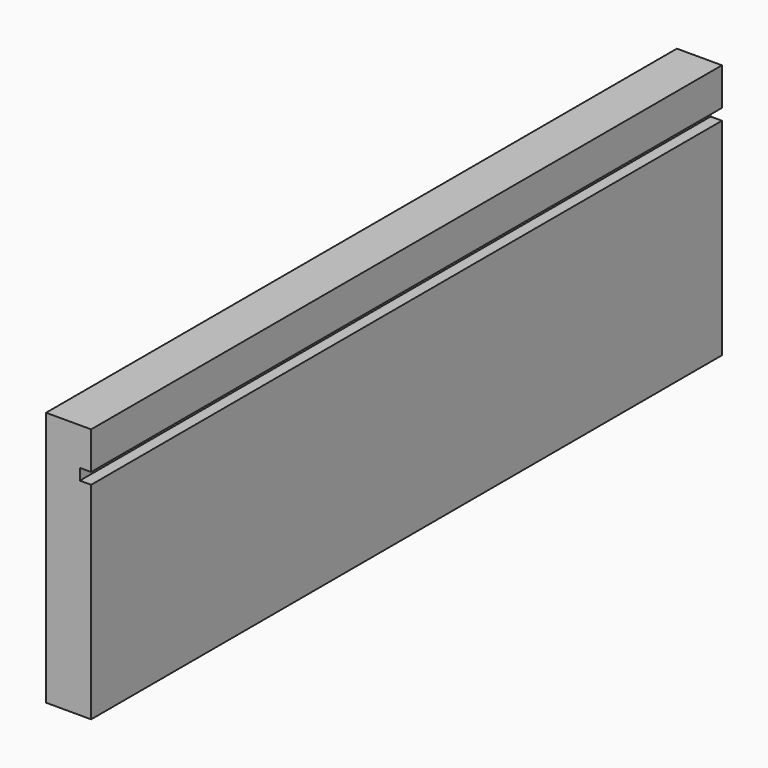
from build123d import *

# Parameters (mm, degrees)
F0_W     = 210
F0_H     = 68
F1_DEPTH = 12
F2_W     = 3
F2_H     = 3
F3_DEPTH = 222000
F4_W     = 3
F4_H     = 3
F5_DEPTH = 210
F6_W     = 3
F6_H     = 3
F7_DEPTH = 300


with BuildPart() as f1:
    # F0 (on Right) → F1 (new body)
    with BuildSketch(Plane.YZ):
        Rectangle(F0_W, F0_H)
    extrude(amount=F1_DEPTH)

    # F2 (on face) → F3 (cut)
    with BuildSketch(Plane.XZ.offset(105)):
        with Locations((1.5, 22.5)):
            Rectangle(F2_W, F2_H)
    extrude(amount=-F3_DEPTH, mode=Mode.SUBTRACT)

    # F4 (on face) → F5 (join)
    with BuildSketch(Plane.XZ.offset(105)):
        with Locations((1.5, 22.5)):
            Rectangle(F4_W, F4_H)
    extrude(amount=-F5_DEPTH)

    # F6 (on face) → F7 (cut)
    with BuildSketch(Plane.XZ.offset(105)):
        with Locations((10.5, 22.5)):
            Rectangle(F6_W, F6_H)
    extrude(amount=-F7_DEPTH, mode=Mode.SUBTRACT)


solid = f1.part
